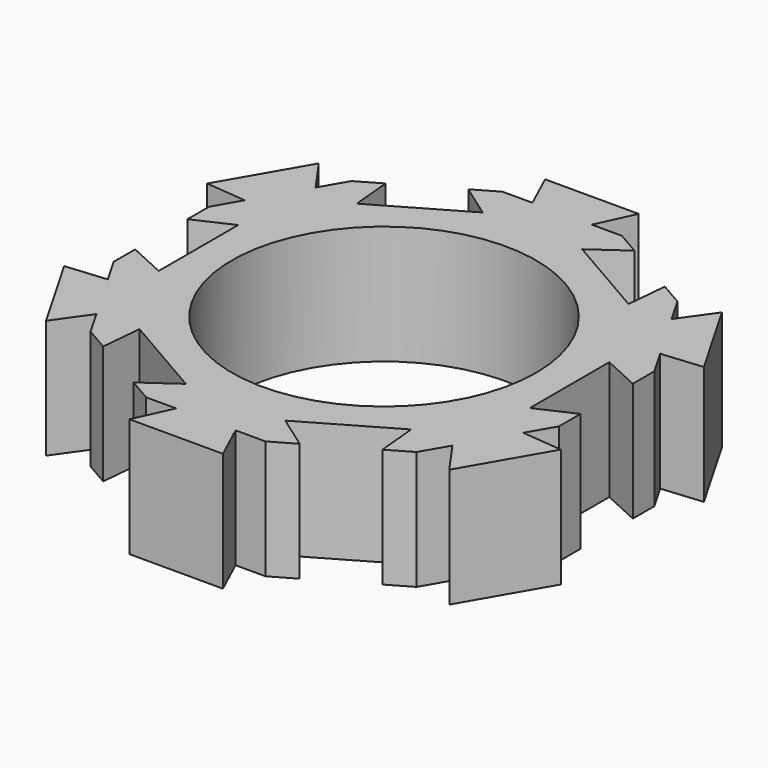
from build123d import *

# Parameters (mm, degrees)
F0_R     = 10.25
F1_DEPTH = 8


with BuildPart() as f1:
    # F0 (on Top) → F1 (new body)
    with BuildSketch(Plane.XY):
        Polygon((63.544877, 9.150635), (57.743606, 12.5), (59.988986, 14.090381), (58.413479, 15), (57.743606, 15), (57.543606, 15), (56.394241, 15), (57.543606, 17.5), (51.244606, 17.5), (52.393971, 15), (50.375004, 15), (48.799497, 14.090381), (51.044877, 12.5), (45.243606, 9.150635), (44.988986, 11.890381), (43.413479, 10.980762), (42.40386, 9.232051), (40.813479, 11.47743), (37.663979, 6.022336), (40.403725, 5.767715), (39.394241, 4.019238), (39.394241, 2.2), (41.894241, 3.349365), (41.894241, -3.349365), (39.394241, -2.2), (39.394241, -4.019238), (40.40386, -5.767949), (37.664114, -6.02257), (40.813614, -11.477664), (42.403995, -9.232285), (43.413479, -10.980762), (44.988986, -11.890381), (45.243606, -9.150635), (51.044877, -12.5), (48.799497, -14.090381), (50.375004, -15), (52.394241, -15), (51.244877, -17.5), (57.543877, -17.5), (56.394512, -15), (58.413479, -15), (59.988986, -14.090381), (57.743606, -12.5), (63.544877, -9.150635), (63.799497, -11.890381), (65.375004, -10.980762), (66.384622, -9.232051), (67.975004, -11.47743), (71.124504, -6.022336), (68.384758, -5.767715), (69.394241, -4.019238), (69.394241, -2.2), (66.894241, -3.349365), (66.894241, 3.349365), (69.394241, 2.2), (69.394241, 4.019238), (68.384622, 5.767949), (71.124368, 6.02257), (67.974868, 11.477664), (66.384487, 9.232285), (65.375004, 10.980762), (63.799497, 11.890381), align=None)
        with Locations((54.394241, 0)):
            Circle(F0_R, mode=Mode.SUBTRACT)
    extrude(amount=F1_DEPTH)


solid = f1.part
